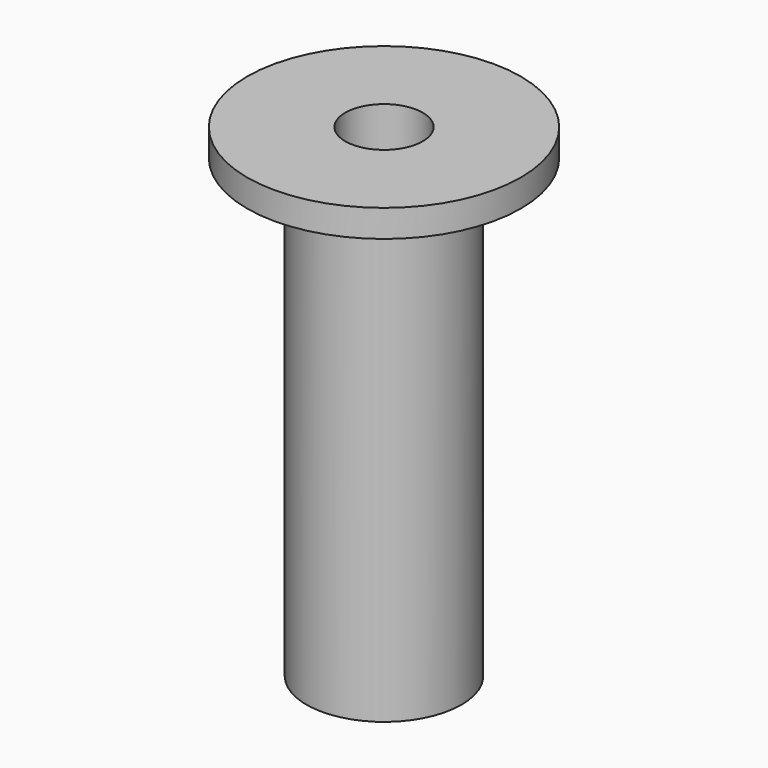
from build123d import *

# Parameters (mm, degrees)
F3_D     = 8.5
F3_DEPTH = 25
F3_TIP   = 2.5536576309
F5_D     = 11
F5_DEPTH = 30
F5_TIP   = 3.3047334047


with BuildPart() as f1:
    # F0 (on Front) → F1 (revolve)
    with BuildSketch(Plane.XZ):
        Polygon((0, 53), (0, 0), (8.5, 0), (8.5, 50), (15, 50), (15, 53), align=None)
    revolve(axis=Axis((0, 0, 35.806838423), (0, 0, 1)))

    # F3
    with Locations(Plane.XY.offset(53)):
        with Locations((0, 0)):
            Hole(F3_D / 2, depth=F3_DEPTH)
            with Locations((0, 0, -(F3_DEPTH + F3_TIP / 2))):  # 118° drill point
                Cone(0, F3_D / 2, F3_TIP, mode=Mode.SUBTRACT)

    # F5
    with Locations(Plane(origin=(0, 0, 0), x_dir=(1, 0, 0), z_dir=(0, 0, -1))):
        with Locations((0, 0)):
            Hole(F5_D / 2, depth=F5_DEPTH)
            with Locations((0, 0, -(F5_DEPTH + F5_TIP / 2))):  # 118° drill point
                Cone(0, F5_D / 2, F5_TIP, mode=Mode.SUBTRACT)


solid = f1.part
